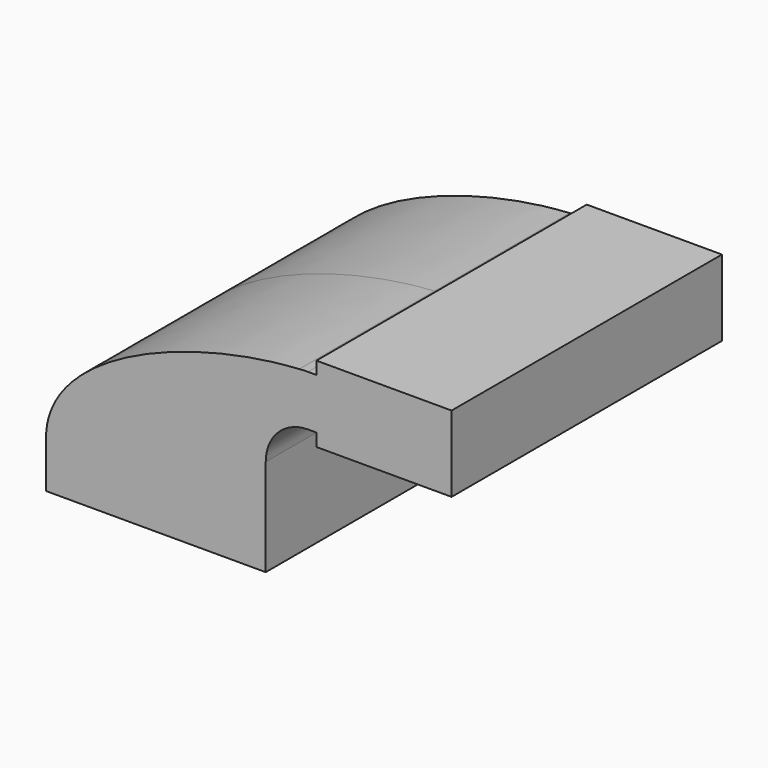
from build123d import *

# Parameters (mm, degrees)
F0_W     = 25.4
F0_H     = 19.05
F0_H_2   = 4.7498
F0_H_3   = 4.7752
F1_DEPTH = 63.5


with BuildPart() as f1:
    # F0 (on Front) → F1 (new body, symmetric)
    with BuildSketch(Plane.XZ):
        with BuildLine():
            add(Edge.make_bspline(
                [(-41.275, 9.525), (-39.5856284224, 39.4828766469), (13.870125209, 59.4306981306), (53.8854342407, 61.7722898912)],
                knots=[0, 0, 0, 0, 108.5245810491, 108.5245810491, 108.5245810491, 108.5245810491], degree=3))
            Line((-41.275, 9.525), (22.225, 9.525))
            Line((22.225, 9.525), (22.225, 27.0002))
            ThreePointArc((22.225, 27.0002), (31.3258777096, 50.5133948686), (53.8854342407, 61.7722898912))
        make_face()
        Polygon((22.225, 9.525), (-41.275, 9.525), (-41.275, -9.525), (41.275, -9.525), (41.275, 9.525), align=None)
        with BuildLine():
            Line((22.225, 27.0002), (22.225, 9.525))
            Line((22.225, 9.525), (41.275, 9.525))
            Line((41.275, 9.525), (41.275, 27.0002))
            ThreePointArc((41.275, 27.0002), (45.9246798487, 38.2255201513), (57.15, 42.8752))
            Line((57.15, 42.8752), (60.325, 42.8752))
            Line((60.325, 42.8752), (60.325, 61.9252))
            Line((60.325, 61.9252), (57.15, 61.9252))
            add(Edge.make_bspline(
                [(53.8854342407, 61.7722898912), (54.9842067368, 61.8365871986), (56.0728453275, 61.8876096574), (57.15, 61.9252)],
                knots=[108.5245810491, 108.5245810491, 108.5245810491, 108.5245810491, 111.5045361635, 111.5045361635, 111.5045361635, 111.5045361635], degree=3))
            ThreePointArc((53.8854342407, 61.7722898912), (31.3258777096, 50.5133948686), (22.225, 27.0002))
        make_face()
        with BuildLine():
            ThreePointArc((57.15, 61.9252), (55.5159275492, 61.8869515287), (53.8854342407, 61.7722898912))
            add(Edge.make_bspline(
                [(53.8854342407, 61.7722898912), (54.9842067368, 61.8365871986), (56.0728453275, 61.8876096574), (57.15, 61.9252)],
                knots=[108.5245810491, 108.5245810491, 108.5245810491, 108.5245810491, 111.5045361635, 111.5045361635, 111.5045361635, 111.5045361635], degree=3))
        make_face()
        with Locations((73.025, 52.4002)):
            Rectangle(F0_W, F0_H)
        with Locations((73.025, 64.3001)):
            Rectangle(F0_W, F0_H_2)
        with Locations((73.025, 40.4876)):
            Rectangle(F0_W, F0_H_3)
        Polygon((85.725, 66.675), (85.725, 61.9252), (85.725, 42.8752), (85.725, 38.1), (111.125, 38.1), (111.125, 66.675), align=None)
    extrude(amount=F1_DEPTH, both=True)


solid = f1.part
